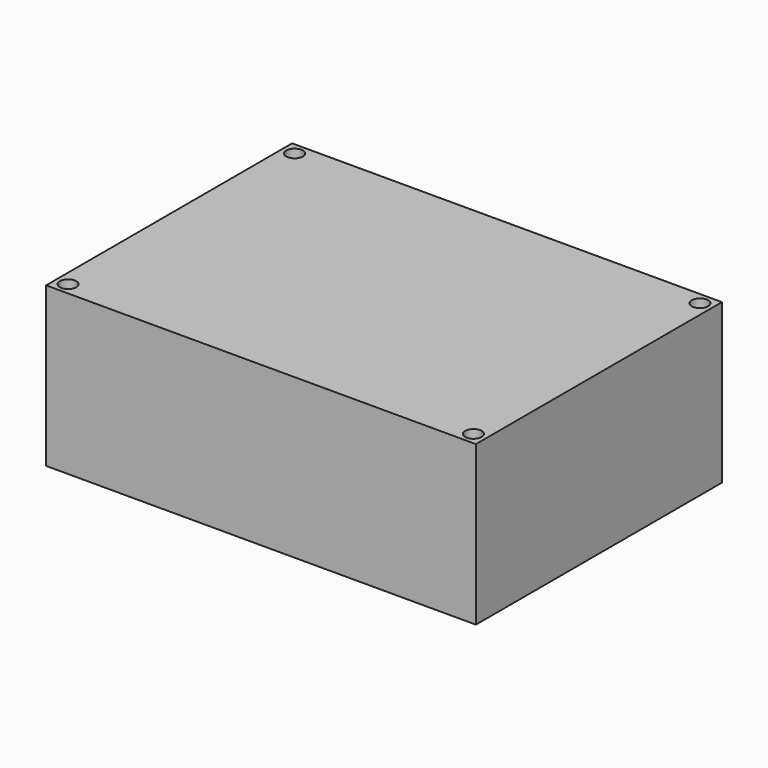
from build123d import *

# Parameters (mm, degrees)
SKETCH_W                = 70.3
SKETCH_H                = 50.3
PAD_DEPTH               = 26
SKETCH001_R             = 1.35
POCKET_DEPTH            = 206.53554
SKETCH001_MIRRORED_2_R  = 1.35
POCKET_MIRRORED_2_DEPTH = 206.53554


with BuildPart() as part:
    # Sketch → Pad (new body)
    with BuildSketch(Plane.XY):
        Rectangle(SKETCH_W, SKETCH_H)
    extrude(amount=PAD_DEPTH)

    # Sketch001 → Pocket (cut, through all)
    with BuildSketch(Plane.XY):
        with Locations((33.15, 23.15)):
            Circle(SKETCH001_R)
    pocket = extrude(amount=POCKET_DEPTH, mode=Mode.SUBTRACT)

    # Sketch001 Mirrored 2 → Pocket Mirrored 2 (cut, through all)
    with BuildSketch(Plane(origin=(0, 0, 0), x_dir=(-1, 0, 0), z_dir=(0, 0, -1))):
        with Locations((33.15, 23.15)):
            Circle(SKETCH001_MIRRORED_2_R)
    pocket_mirrored_2 = extrude(amount=-POCKET_MIRRORED_2_DEPTH, mode=Mode.SUBTRACT)

    # Mirrored001: Pocket, Pocket Mirrored 2 across Sketch001 H_Axis
    add(pocket.mirror(Plane.ZX), mode=Mode.SUBTRACT)
    add(pocket_mirrored_2.mirror(Plane.ZX), mode=Mode.SUBTRACT)


solid = part.part
